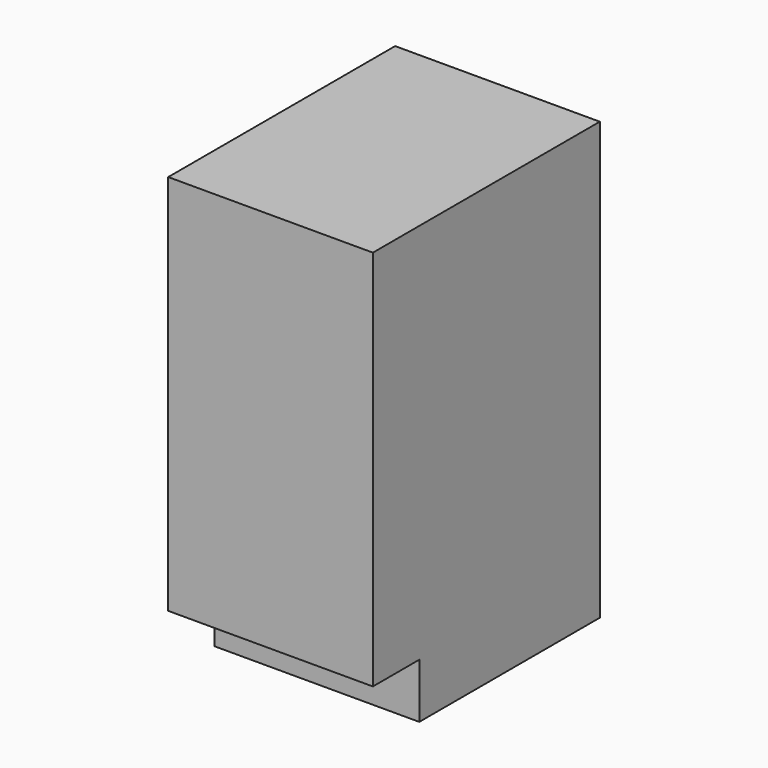
from build123d import *

# Parameters (mm, degrees)
F0_W     = 377.825
F0_H     = 860.425
F1_DEPTH = 514.35
F2_DEPTH = 25.4
F3_W     = 69.85
F3_H     = 107.95
F4_DEPTH = 403.226
F5_W     = 403.225
F5_H     = 752.475
F6_DEPTH = 44.45


with BuildPart() as f1:
    # F0 (on Front) → F1 (new body)
    with BuildSketch(Plane.XZ):
        Rectangle(F0_W, F0_H)
    extrude(amount=F1_DEPTH)

    # F2 (add): a face of the model
    f2_faces = [f1.faces().sort_by_distance(p)[0] for p in [
        (188.9125, -257.175, 0),
    ]]
    extrude(f2_faces, amount=F2_DEPTH)

    # F3 (on face) → F4 (cut, through all)
    with BuildSketch(Plane.YZ.offset(214.3125)):
        with Locations((-479.425, -376.2375)):
            Rectangle(F3_W, F3_H)
    extrude(amount=-F4_DEPTH, mode=Mode.SUBTRACT)

    # F5 (on face) → F6 (join)
    with BuildSketch(Plane.XZ.offset(514.35)):
        with Locations((12.7, 53.975)):
            Rectangle(F5_W, F5_H)
    extrude(amount=F6_DEPTH)


solid = f1.part
